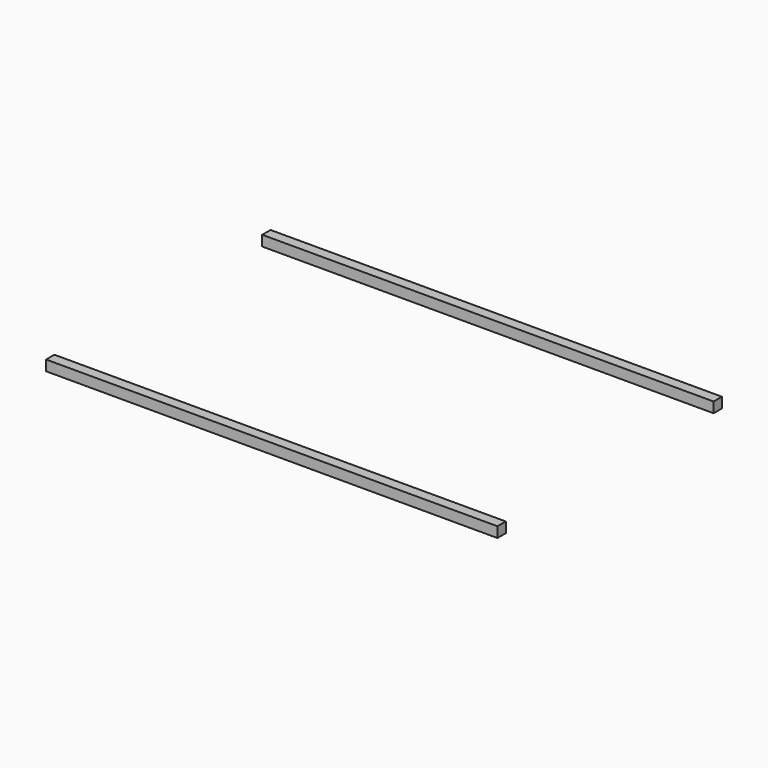
from build123d import *

# Parameters (mm, degrees)
F0_W     = 101.0793037713
F0_H     = 4.8006027937
F1_DEPTH = 152.4
F0_H_2   = 4.2672017589
F3_W     = 6950
F3_H     = 160
F4_DEPTH = 160


with BuildPart() as f1:
    # F0 (on Top) → F1 (new body)
    with BuildSketch(Plane.XY):
        with Locations((10.9347011894, 47.7393008769)):
            Rectangle(F0_W, F0_H)
    extrude(amount=F1_DEPTH)


with BuildPart() as f1b:
    # F0 (on Top) → F1, piece 2 (new body)
    with BuildSketch(Plane.XY):
        with Locations((10.9347011894, 13.8684003614)):
            Rectangle(F0_W, F0_H_2)
    extrude(amount=F1_DEPTH)


with BuildPart() as f4:
    # F3 (on Top) → F4 (new body)
    with BuildSketch(Plane.XY):
        with Locations((2799.9345889312, 4185.8699003607)):
            Rectangle(F3_W, F3_H)
    extrude(amount=F4_DEPTH)


with BuildPart() as f4b:
    # F3 (on Top) → F4, piece 2 (new body)
    with BuildSketch(Plane.XY):
        with Locations((2799.9345889312, 25.8699003607)):
            Rectangle(F3_W, F3_H)
    extrude(amount=F4_DEPTH)


solid = Compound([f4.part, f4b.part])
